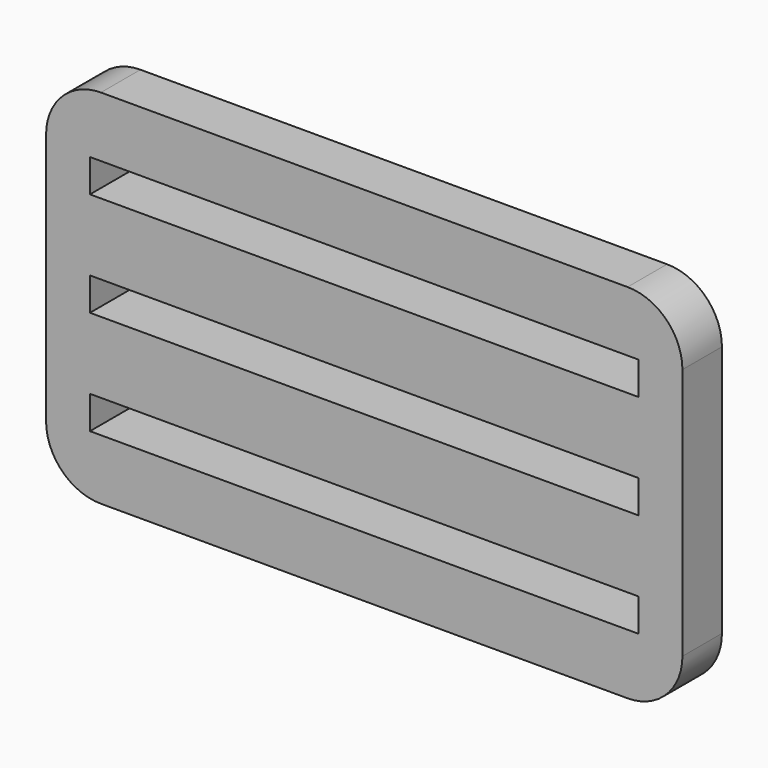
from build123d import *

# Parameters (mm, degrees)
F2_DEPTH = 4.5
F1_W     = 50
F1_H     = 3
F3_DEPTH = 4.5


with BuildPart() as f2:
    # F0 (on Front) → F2 (new body)
    with BuildSketch(Plane.XZ):
        with BuildLine():
            Line((-24, -16.5), (24, -16.5))
            ThreePointArc((24, -16.5), (27.535534, -15.035534), (29, -11.5))
            Line((29, -11.5), (29, 11.5))
            ThreePointArc((29, 11.5), (27.535534, 15.035534), (24, 16.5))
            Line((24, 16.5), (-24, 16.5))
            ThreePointArc((-24, 16.5), (-27.535534, 15.035534), (-29, 11.5))
            Line((-29, 11.5), (-29, -11.5))
            ThreePointArc((-29, -11.5), (-27.535534, -15.035534), (-24, -16.5))
        make_face()
    extrude(amount=F2_DEPTH)

    # F1 (on Front) → F3 (cut)
    with BuildSketch(Plane.XZ):
        Rectangle(F1_W, F1_H)
        with Locations((0, 9.5)):
            Rectangle(F1_W, F1_H)
        with Locations((0, -9.5)):
            Rectangle(F1_W, F1_H)
    extrude(amount=F3_DEPTH, mode=Mode.SUBTRACT)


solid = f2.part
